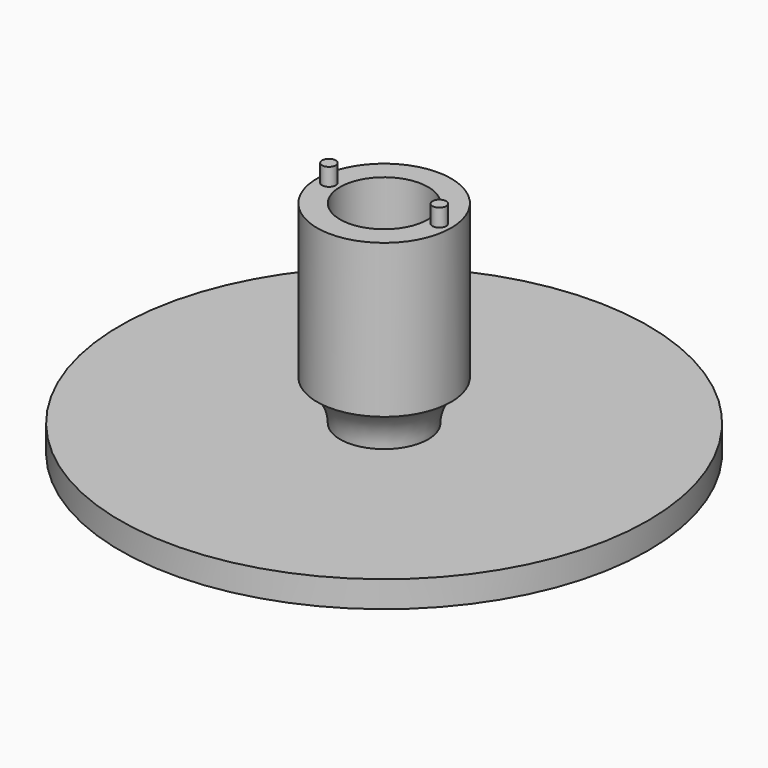
from build123d import *

# Parameters (mm, degrees)
F0_W     = 25
F0_H     = 3
F2_R     = 5
F3_DEPTH = 34.4
F4_R     = 0.775
F5_DEPTH = 2


with BuildPart() as f1:
    # F0 (on Front) → F1 (revolve)
    with BuildSketch(Plane.XZ):
        with Locations((11.374407, 1.5)):
            Rectangle(F0_W, F0_H)
        with BuildLine():
            Line((-1.125593, 25), (-1.125593, 3))
            ThreePointArc((-1.125593, 3), (-0.425256, 5.642617), (1.491917, 7.591552))
            Line((1.491917, 7.591552), (1.491917, 25))
            Line((1.491917, 25), (-1.125593, 25))
        make_face()
        Polygon((-6.125593, 0), (-1.125593, 0), (-1.125593, 3), (-1.125593, 25), (-6.125593, 25), align=None)
    revolve(axis=Axis((-6.125593, 0, 12.5), (0, 0, 1)))

    # F2 (on face) → F3 (cut)
    with BuildSketch(Plane.XY.offset(25)):
        with Locations((-6.125593, 0)):
            Circle(F2_R)
    extrude(amount=-F3_DEPTH, mode=Mode.SUBTRACT)

    # F4 (on face) → F5 (join)
    with BuildSketch(Plane.XY.offset(25)):
        with Locations((-12.400593, 0)):
            Circle(F4_R)
        with Locations((0.149407, 0)):
            Circle(F4_R)
    extrude(amount=F5_DEPTH)


solid = f1.part
